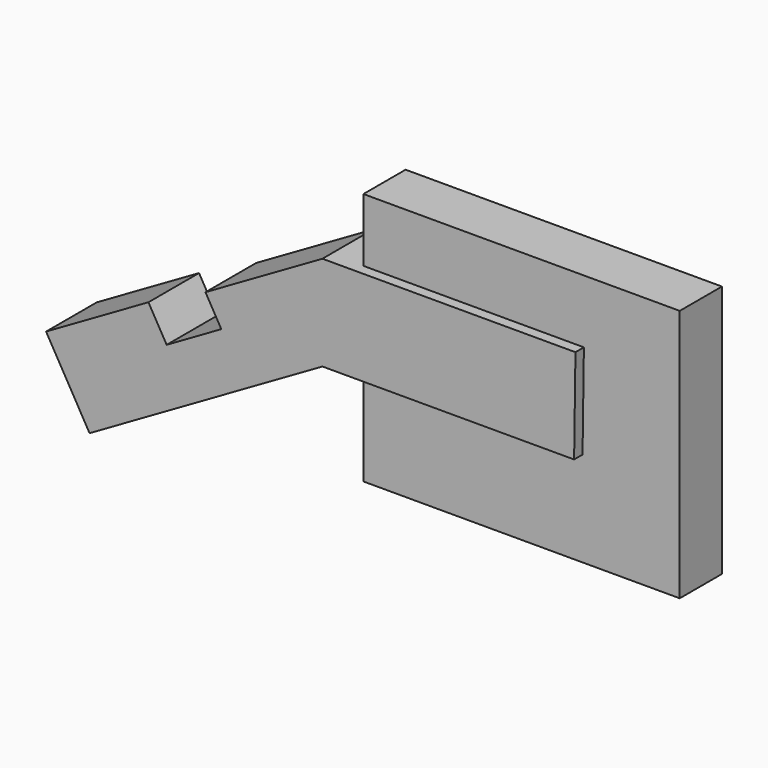
from build123d import *

# Parameters (mm, degrees)
F1_DEPTH = 30
F2_DEPTH = 25


with BuildPart() as f1:
    # F0 (on Front) → F1 (new body)
    with BuildSketch(Plane.XZ):
        Polygon((-38.401296, 0), (65.508242, 0), (66.145544, 44.995487), (-38.401296, 44.995487), (-53.854456, 44.995487), (-109.288926, 12.990381), (-101.788926, 0), (-127.695152, -14.956967), (-136.33056, 0), (-184.878789, -28.029333), (-164.259763, -63.742533), (-53.854456, 0), align=None)
    extrude(amount=F1_DEPTH)

    # F0 (on Front) → F2 (join)
    with BuildSketch(Plane.XZ):
        Polygon((66.145544, 44.995487), (65.508242, 0), (-38.401296, 0), (-38.401296, -45.004513), (111.598704, -45.004513), (111.598704, 74.995487), (-38.401296, 74.995487), (-38.401296, 44.995487), align=None)
        Polygon((-38.401296, 0), (65.508242, 0), (66.145544, 44.995487), (-38.401296, 44.995487), (-53.854456, 44.995487), (-109.288926, 12.990381), (-101.788926, 0), (-127.695152, -14.956967), (-136.33056, 0), (-184.878789, -28.029333), (-164.259763, -63.742533), (-53.854456, 0), align=None)
    extrude(amount=F2_DEPTH)


solid = f1.part
